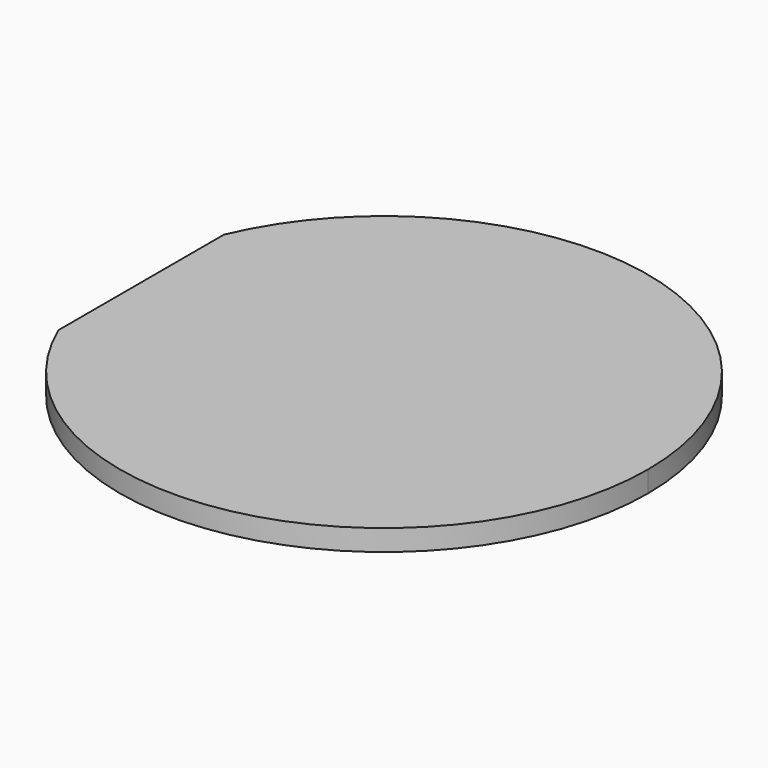
from build123d import *

# Parameters (mm, degrees)
F1_DEPTH = 2


with BuildPart() as f1:
    # F0 (on Top) → F1 (new body)
    with BuildSketch(Plane.XY):
        with BuildLine():
            ThreePointArc((-23, -9.797959), (5, -24.494897), (25, 0))
            ThreePointArc((25, 0), (5, 24.494897), (-23, 9.797959))
            Line((-23, 9.797959), (-23, -9.797959))
        make_face()
    extrude(amount=F1_DEPTH)


solid = f1.part
